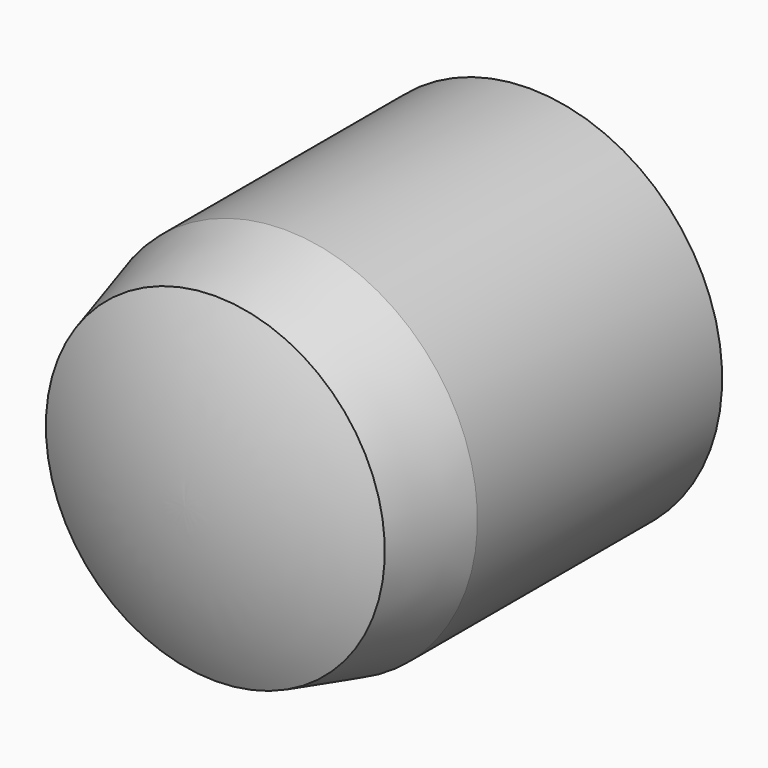
from build123d import *


with BuildPart() as part:
    # Sketch → Revolution (revolve)
    with BuildSketch(Plane.YZ):
        with BuildLine():
            ThreePointArc((0, 3.517691), (-0.597479, 1.803757), (-0.8, 0))
            Line((-0.8, 0), (9.2, 0))
            ThreePointArc((9.2, 0), (8.932731, 2.067951), (8.148488, 4))
            Line((1.8, 4), (8.148488, 4))
            Line((0, 3.517691), (1.8, 4))
        make_face()
    revolve(axis=Axis((0, 0, 0), (0, 1, 0)))


solid = part.part
